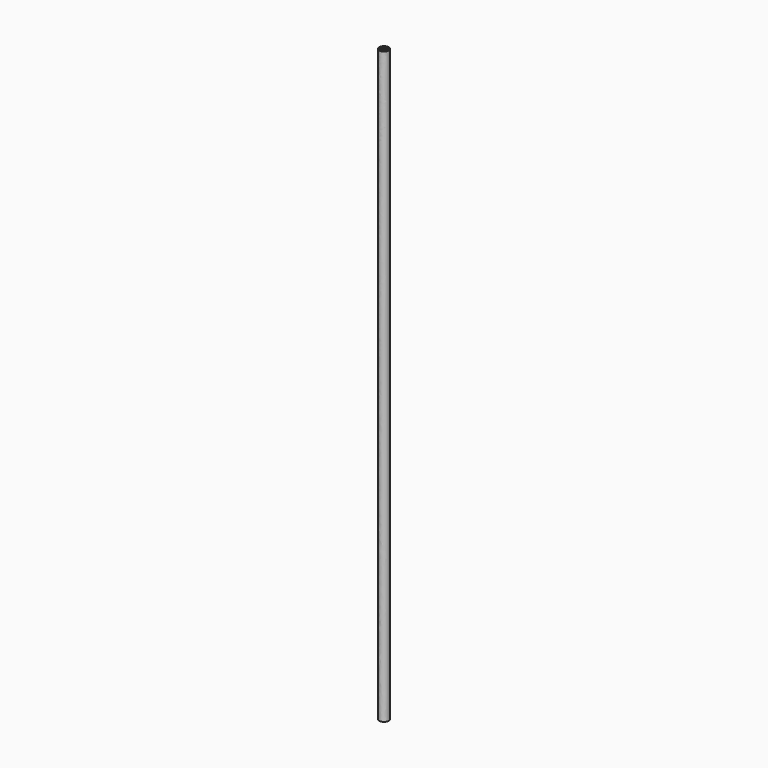
from build123d import *

# Parameters (mm, degrees)
F0_R   = 0.525
F0_R_2 = 0.05
F0_R_3 = 0.075


with BuildPart() as f2:
    # F2: sweep along a path in F1
    with BuildLine(Plane.YZ) as f2_path:
        add(Plane.YZ * Edge.make_bspline(
            [(0, 0), (0, 34.5409028232), (0, 51.3234883547), (0, 65.5691698194)],
            knots=[0, 0, 0, 0, 65.5691698194, 65.5691698194, 65.5691698194, 65.5691698194], degree=3))
    # F0 (on Top) → F2 (sweep)
    with BuildSketch(Plane.XY):
        Circle(F0_R)
        with BuildLine():
            ThreePointArc((-0.316873714, -0.0722222222), (-0.2298097039, -0.2298097039), (-0.0722222222, -0.316873714))
            ThreePointArc((-0.0722222222, -0.316873714), (-0.0345835312, -0.3767346273), (-0.0944444444, -0.4143733183))
            ThreePointArc((-0.0944444444, -0.4143733183), (-0.300520382, -0.300520382), (-0.4143733183, -0.0944444444))
            ThreePointArc((-0.4143733183, -0.0944444444), (-0.3767346273, -0.0345835312), (-0.316873714, -0.0722222222))
        make_face(mode=Mode.SUBTRACT)
        with Locations((0, -0.225)):
            Circle(F0_R_2, mode=Mode.SUBTRACT)
        with BuildLine():
            ThreePointArc((0.0722222222, -0.316873714), (0.2298097039, -0.2298097039), (0.316873714, -0.0722222222))
            ThreePointArc((0.316873714, -0.0722222222), (0.3767346273, -0.0345835312), (0.4143733183, -0.0944444444))
            ThreePointArc((0.4143733183, -0.0944444444), (0.300520382, -0.300520382), (0.0944444444, -0.4143733183))
            ThreePointArc((0.0944444444, -0.4143733183), (0.0345835312, -0.3767346273), (0.0722222222, -0.316873714))
        make_face(mode=Mode.SUBTRACT)
        with Locations((-0.225, 0)):
            Circle(F0_R_2, mode=Mode.SUBTRACT)
        with BuildLine():
            ThreePointArc((-0.0722222222, 0.316873714), (-0.2298097039, 0.2298097039), (-0.316873714, 0.0722222222))
            ThreePointArc((-0.316873714, 0.0722222222), (-0.3767346273, 0.0345835312), (-0.4143733183, 0.0944444444))
            ThreePointArc((-0.4143733183, 0.0944444444), (-0.300520382, 0.300520382), (-0.0944444444, 0.4143733183))
            ThreePointArc((-0.0944444444, 0.4143733183), (-0.0345835312, 0.3767346273), (-0.0722222222, 0.316873714))
        make_face(mode=Mode.SUBTRACT)
        Circle(F0_R_3, mode=Mode.SUBTRACT)
        with Locations((0.225, 0)):
            Circle(F0_R_2, mode=Mode.SUBTRACT)
        with Locations((0, 0.225)):
            Circle(F0_R_2, mode=Mode.SUBTRACT)
        with BuildLine():
            ThreePointArc((0.316873714, 0.0722222222), (0.2298097039, 0.2298097039), (0.0722222222, 0.316873714))
            ThreePointArc((0.0722222222, 0.316873714), (0.0345835312, 0.3767346273), (0.0944444444, 0.4143733183))
            ThreePointArc((0.0944444444, 0.4143733183), (0.300520382, 0.300520382), (0.4143733183, 0.0944444444))
            ThreePointArc((0.4143733183, 0.0944444444), (0.3767346273, 0.0345835312), (0.316873714, 0.0722222222))
        make_face(mode=Mode.SUBTRACT)
    sweep(path=f2_path.line)


solid = f2.part
